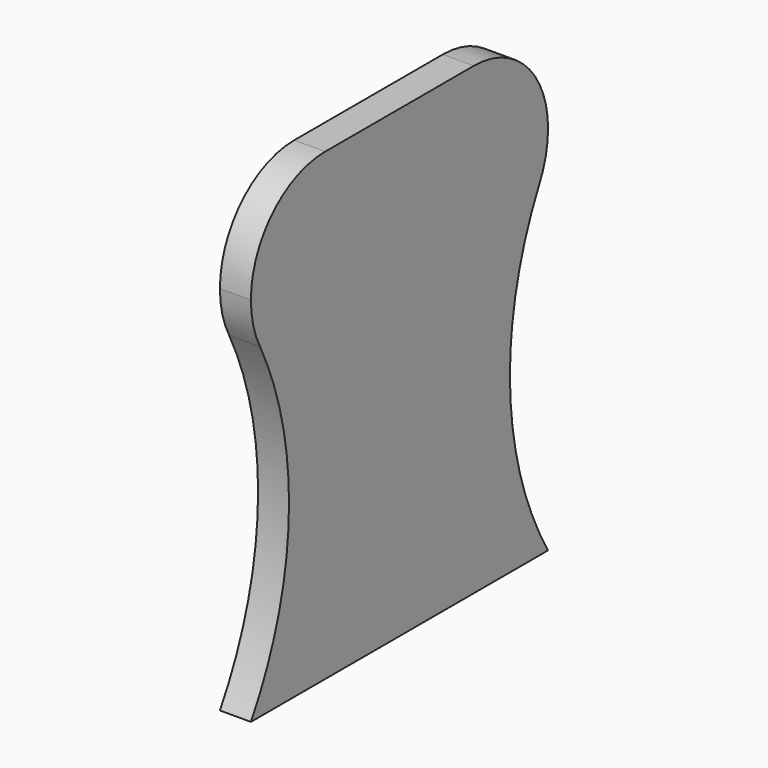
from build123d import *

# Parameters (mm, degrees)
F1_DEPTH = 50


with BuildPart() as f1:
    # F0 (on Right) → F1 (new body, symmetric)
    with BuildSketch(Plane.YZ):
        with BuildLine():
            Line((-600, 0), (0, 0))
            Line((0, 0), (600, 0))
            ThreePointArc((600, 0), (446.7537979187, 521.3578421542), (563.05372715, 1052.1805286407))
            ThreePointArc((563.05372715, 1052.1805286407), (590.6235148046, 1123.8166304394), (600, 1200))
            ThreePointArc((600, 1200), (512.132034356, 1412.132034356), (300, 1500))
            Line((300, 1500), (0, 1500))
            Line((0, 1500), (-300, 1500))
            ThreePointArc((-300, 1500), (-512.132034356, 1412.132034356), (-600, 1200))
            ThreePointArc((-600, 1200), (-590.6235148046, 1123.8166304394), (-563.05372715, 1052.1805286407))
            ThreePointArc((-563.05372715, 1052.1805286407), (-446.7537979187, 521.3578421542), (-600, 0))
        make_face()
    extrude(amount=F1_DEPTH, both=True)


solid = f1.part
